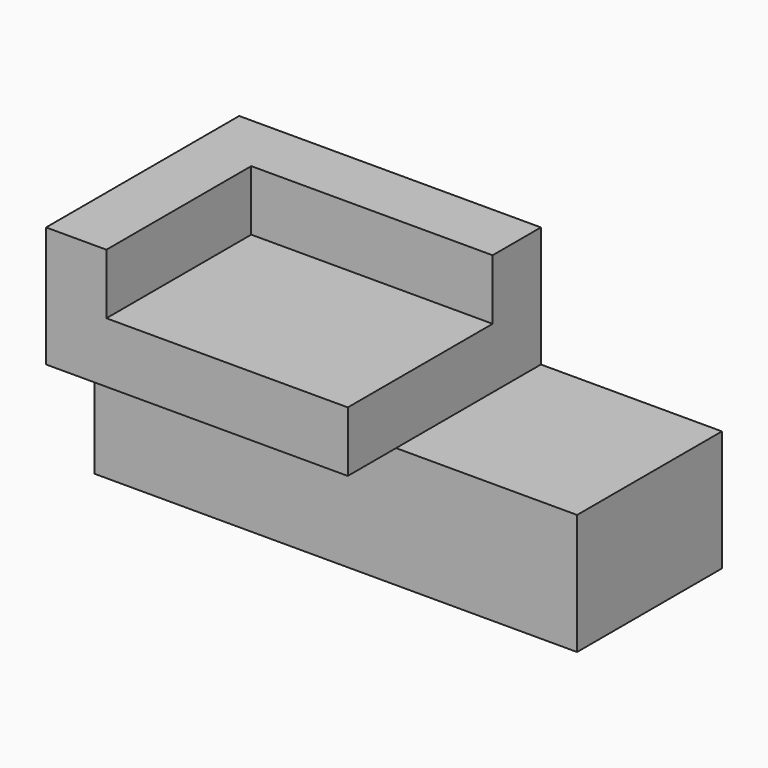
from build123d import *

# Parameters (mm, degrees)
F1_DEPTH = 203.2
F2_W     = 101.6
F2_H     = 76.2
F3_DEPTH = 25.4
F4_W     = 76.2
F4_H     = 101.6
F5_DEPTH = 50.8


with BuildPart() as f1:
    # F0 (on Right) → F1 (new body)
    with BuildSketch(Plane.YZ):
        Polygon((-66.000787, -56.953944), (10.199213, -56.953944), (10.199213, -6.153944), (10.199213, 44.646056), (-91.400787, 44.646056), (-91.400787, -6.153944), (-66.000787, -6.153944), align=None)
    extrude(amount=F1_DEPTH)

    # F2 (on face) → F3 (cut)
    with BuildSketch(Plane.XY.offset(44.646056)):
        with Locations((76.2, -53.300787)):
            Rectangle(F2_W, F2_H)
        with Locations((76.2, -53.300787)):
            Rectangle(F2_W, F2_H)
    extrude(amount=-F3_DEPTH, mode=Mode.SUBTRACT)

    # F4 (on face) → F5 (cut)
    with BuildSketch(Plane.XY.offset(44.646056)):
        with Locations((165.1, -40.600787)):
            Rectangle(F4_W, F4_H)
    extrude(amount=-F5_DEPTH, mode=Mode.SUBTRACT)


solid = f1.part
